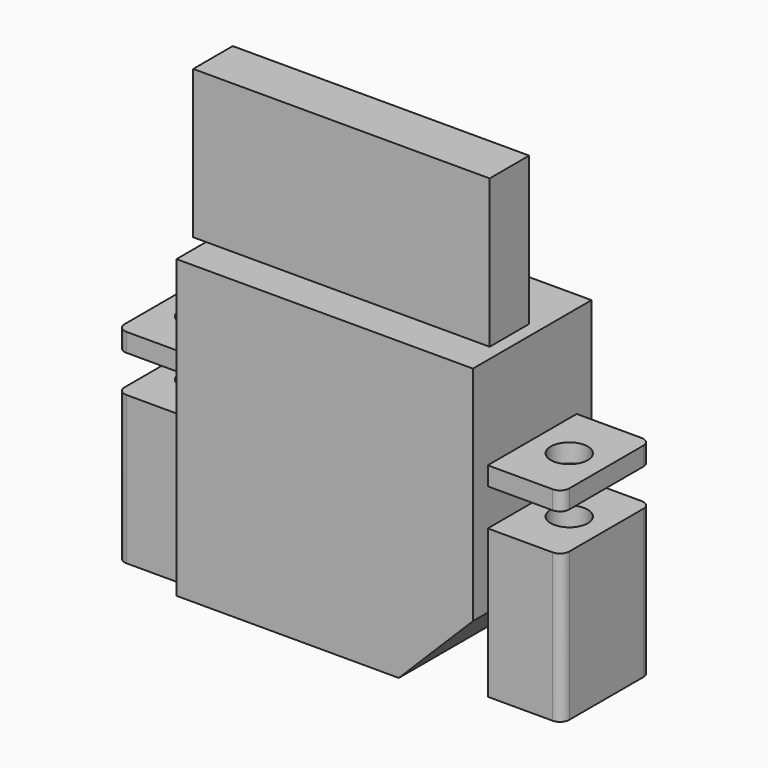
from build123d import *

# Parameters (mm, degrees)
F1_DEPTH  = 12.7
F3_W      = 6.35
F3_H      = 9.525
F3_R      = 1.5875
F4_DEPTH  = 1.5875
F5_DEPTH  = 1.5875
F6_R      = 0.79375
F7_R      = 1.5875
F8_DEPTH  = 12.7
F9_W      = 24.2983907599
F9_H      = 4.2333333333
F9_W_2    = 1.1016092401
F10_DEPTH = 12.7


with BuildPart() as f1:
    # F0 (on Front) → F1 (new body)
    with BuildSketch(Plane.XZ):
        Polygon((0, 25.4), (0, 0), (19.05, 0), (25.4, 6.35), (25.4, 25.4), align=None)
    extrude(amount=F1_DEPTH)

    # F3 (on offset) → F4 (join)
    with BuildSketch(Plane.XY.offset(15.875)):
        with Locations((-3.175, -6.35)):
            Rectangle(F3_W, F3_H)
        with Locations((-3.175, -6.35)):
            Circle(F3_R, mode=Mode.SUBTRACT)
    extrude(amount=F4_DEPTH)

    # F3 (on offset) → F5 (join)
    with BuildSketch(Plane.XY.offset(15.875)):
        with Locations((28.575, -6.35)):
            Rectangle(F3_W, F3_H)
        with Locations((28.575, -6.35)):
            Circle(F3_R, mode=Mode.SUBTRACT)
    extrude(amount=F5_DEPTH)

    # F6
    f6_edges = [f1.edges().sort_by_distance(p)[0] for p in [
        (31.75, -11.1125, 16.66875),
        (-6.35, -11.1125, 16.66875),
        (31.75, -1.5875, 16.66875),
        (-6.35, -1.5875, 16.66875),
    ]]
    fillet(f6_edges, radius=F6_R)


with BuildPart() as f8:
    # F7 (on Top) → F8 (new body)
    with BuildSketch(Plane.XY):
        with BuildLine():
            Line((25.4, -1.5875), (25.4, -11.1125))
            Line((25.4, -11.1125), (30.95625, -11.1125))
            ThreePointArc((30.95625, -11.1125), (31.5175160076, -10.8800160076), (31.75, -10.31875))
            Line((31.75, -10.31875), (31.75, -2.38125))
            ThreePointArc((31.75, -2.38125), (31.5175160076, -1.8199839924), (30.95625, -1.5875))
            Line((30.95625, -1.5875), (25.4, -1.5875))
        make_face()
        with Locations((28.575, -6.35)):
            Circle(F7_R, mode=Mode.SUBTRACT)
    extrude(amount=F8_DEPTH)


with BuildPart() as f8b:
    # F7 (on Top) → F8, piece 2 (new body)
    with BuildSketch(Plane.XY):
        with BuildLine():
            Line((0, -11.1125), (0, -1.5875))
            Line((0, -1.5875), (-5.55625, -1.5875))
            ThreePointArc((-5.55625, -1.5875), (-6.1175160076, -1.8199839924), (-6.35, -2.38125))
            Line((-6.35, -2.38125), (-6.35, -10.31875))
            ThreePointArc((-6.35, -10.31875), (-6.1175160076, -10.8800160076), (-5.55625, -11.1125))
            Line((-5.55625, -11.1125), (0, -11.1125))
        make_face()
        with Locations((-3.175, -6.35)):
            Circle(F7_R, mode=Mode.SUBTRACT)
    extrude(amount=F8_DEPTH)


with BuildPart() as f10:
    # F9 (on face) → F10 (new body)
    with BuildSketch(Plane.XY.offset(25.4)):
        with Locations((12.14919538, -7.41574509)):
            Rectangle(F9_W, F9_H)
        with Locations((-0.55080462, -7.41574509)):
            Rectangle(F9_W_2, F9_H)
    extrude(amount=F10_DEPTH)


solid = Compound([f1.part, f8.part, f8b.part, f10.part])
